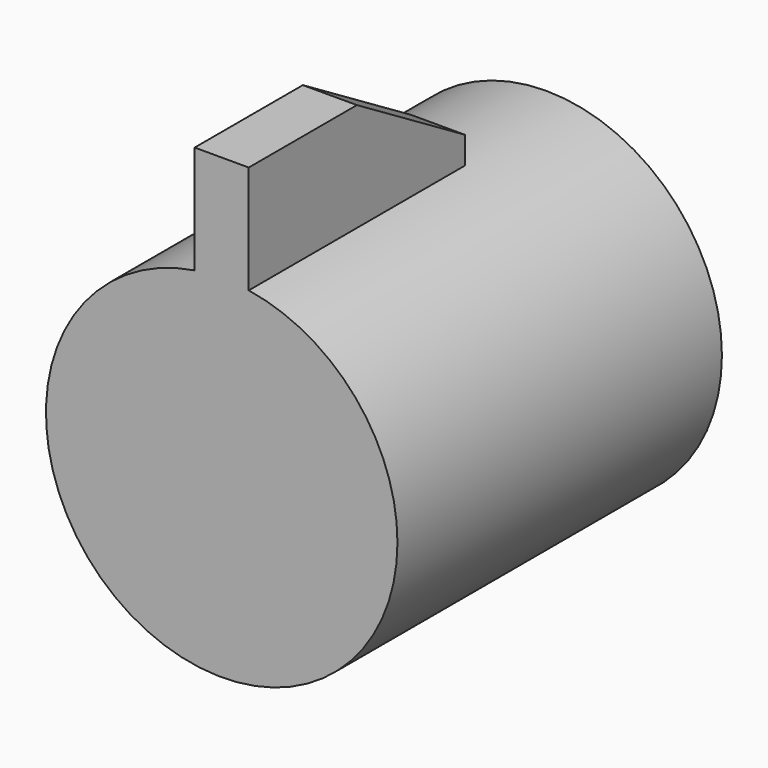
from build123d import *

# Parameters (mm, degrees)
F0_R     = 13
F1_DEPTH = 30
F2_R     = 11.5
F3_DEPTH = 25
F4_W     = 4
F4_H     = 8
F5_DEPTH = 20
F7_DEPTH = 4


with BuildPart() as f1:
    # F0 (on Front) → F1 (new body)
    with BuildSketch(Plane.XZ):
        Circle(F0_R)
    extrude(amount=F1_DEPTH)

    # F2 (on Front) → F3 (cut)
    with BuildSketch(Plane.XZ):
        Circle(F2_R)
    extrude(amount=F3_DEPTH, mode=Mode.SUBTRACT)

    # F4 (on face) → F5 (join)
    with BuildSketch(Plane.XZ.offset(30)):
        with Locations((0, 16.845233)):
            Rectangle(F4_W, F4_H)
    extrude(amount=-F5_DEPTH)

    # F6 (on face) → F7 (cut)
    with BuildSketch(Plane.YZ.offset(2)):
        Polygon((-10, 20.845233), (-20, 20.845233), (-10, 14.845233), align=None)
    extrude(amount=-F7_DEPTH, mode=Mode.SUBTRACT)


solid = f1.part
